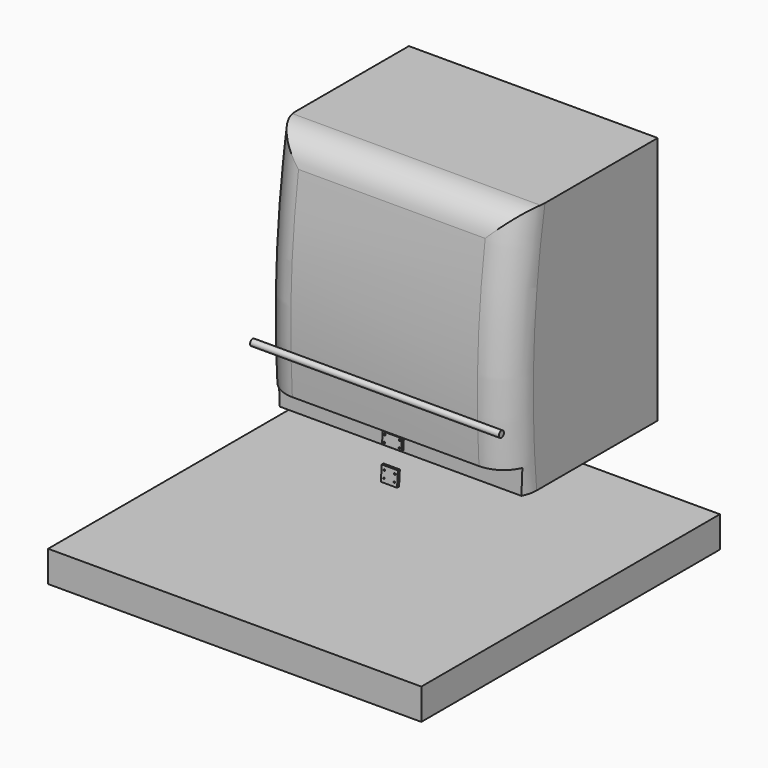
from build123d import *

# Parameters (mm, degrees)
F0_W          = 3000
F0_H          = 250
F1_DEPTH      = 1500
F1_DEPTH_BACK = 1500
F3_DEPTH      = 65
F3_DEPTH_BACK = 65
F5_DEPTH      = 77.5
F5_DEPTH_BACK = 77.5
F6_R          = 25.5
F7_DEPTH      = 1000
F7_DEPTH_BACK = 1000
F8_R          = 250
F10_D         = 14
F12_D         = 12


with BuildPart() as f1:
    # F0 (on Right) → F1 (new body, two sides)
    with BuildSketch(Plane.YZ) as f1_sk:
        with Locations((0, -125)):
            Rectangle(F0_W, F0_H)
    extrude(amount=F1_DEPTH)
    extrude(f1_sk.sketch, amount=-F1_DEPTH_BACK)


with BuildPart() as f3:
    # F2 (on Right) → F3 (new body, two sides)
    with BuildSketch(Plane.YZ) as f3_sk:
        Polygon((58, 429.7330363768), (50, 310), (69.9555060628, 308.6666666667), (77.9555060628, 428.3997030434), align=None)
    extrude(amount=F3_DEPTH)
    extrude(f3_sk.sketch, amount=-F3_DEPTH_BACK)

    # F12 (through all)
    with Locations(Plane(origin=(0, 29.1570881796, -1.9481398994), x_dir=(1, 0, 0), z_dir=(0, -0.9977753031, 0.0666666667))):
        with Locations((-42, 401.1436773066), (42, 344.1436773066), (-42, 344.1436773066), (42, 401.1436773066)):
            Hole(F12_D / 2)


with BuildPart() as f5:
    # F4 (on Right) → F5 (new body, two sides)
    with BuildSketch(Plane.YZ) as f5_sk:
        Polygon((83, 650), (77, 560.2002227174), (96.9555060628, 558.8668893841), (102.9555060628, 648.6666666667), align=None)
    extrude(amount=F5_DEPTH)
    extrude(f5_sk.sketch, amount=-F5_DEPTH_BACK)

    # F10 (through all)
    with Locations(Plane(origin=(0, 39.3941813084, -2.6321344552), x_dir=(1, 0, 0), z_dir=(0, -0.9977753031, 0.0666666667))):
        with Locations((-61, 636.5872803741), (61, 636.5872803741), (61, 581.5872803741), (-61, 581.5872803741)):
            Hole(F10_D / 2)


with BuildPart() as f7:
    # F6 (on Right) → F7 (new body, two sides)
    with BuildSketch(Plane.YZ) as f7_sk:
        with Locations((-70, 1042)):
            Circle(F6_R)
    extrude(amount=F7_DEPTH)
    extrude(f7_sk.sketch, amount=-F7_DEPTH_BACK)


with BuildPart() as f7b:
    # F6 (on Right) → F7, piece 2 (new body, two sides)
    with BuildSketch(Plane.YZ) as f7_2_sk:
        with BuildLine():
            Line((1500, 2500), (113.5258749522, 2500))
            ThreePointArc((113.5258749522, 2500), (10.8307889193, 1602.9200017379), (16.6852264521, 700))
            Line((16.6852264521, 700), (166.6852264521, 700))
            Line((166.6852264521, 700), (166.6852264521, 500))
            Line((166.6852264521, 500), (1500, 500))
            Line((1500, 500), (1500, 2500))
        make_face()
    extrude(amount=F7_DEPTH)
    extrude(f7_2_sk.sketch, amount=-F7_DEPTH_BACK)

    # F8
    f8_edges = [f7b.edges().sort_by_distance(p)[0] for p in [
        (-1000, 10.830789, 1602.920002),
        (1000, 10.830789, 1602.920002),
        (0, 113.525875, 2500),
    ]]
    fillet(f8_edges, radius=F8_R)


solid = Compound([f1.part, f3.part, f5.part, f7.part, f7b.part])
